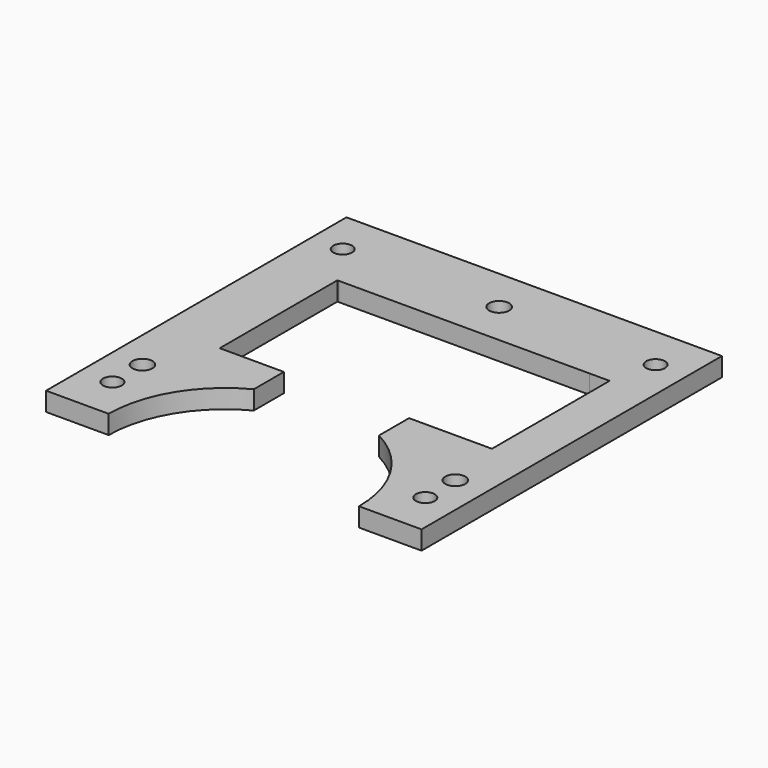
from build123d import *

# Parameters (mm, degrees)
F1_DEPTH  = 3
F2_R      = 1.5
F3_DEPTH  = 3.001
F4_R      = 1.6
F5_DEPTH  = 3.001
F6_W      = 40
F6_H      = 3
F7_DEPTH  = 0.5
F8_W      = 23.5
F8_H      = 3
F9_DEPTH  = 0.25
F10_W     = 23.5000022292
F10_H     = 3
F11_DEPTH = 0.25
F12_W     = 23.5000022292
F12_H     = 3
F13_DEPTH = 3


with BuildPart() as f1:
    # F0 (on Top) → F1 (new body)
    with BuildSketch(Plane.XY):
        Polygon((30, -30), (30, 30), (-30, 30), (-30, -30), (-20, -30), (-20, -15.5000011146), (-19.9802070856, -13.5000011146), (-10, -13.5000011146), (-10, -7.5000011146), (-20, -7.5000011146), (-20, 15.4999988854), (20, 15.5000011146), (20, -7.5000011146), (10, -7.5000011146), (10, -13.5000011146), (20, -13.5000011146), (20, -15.4999988854), (20, -30), align=None)
        with BuildLine():
            Line((-20, -15.5000011146), (-20, -30))
            ThreePointArc((-20, -30), (-17.3048696173, -20.3531097858), (-10, -13.5000011146))
            Line((-10, -13.5000011146), (-19.9802070856, -13.5000011146))
            Line((-19.9802070856, -13.5000011146), (-20, -15.5000011146))
        make_face()
        with BuildLine():
            ThreePointArc((10, -13.5000011146), (17.3048696173, -20.3531097858), (20, -30))
            Line((20, -30), (20, -15.4999988854))
            Line((20, -15.4999988854), (20, -13.5000011146))
            Line((20, -13.5000011146), (10, -13.5000011146))
        make_face()
    extrude(amount=F1_DEPTH)

    # F2 (on face) → F3 (cut, through all)
    with BuildSketch(Plane.XY.offset(3)):
        with Locations((-25, 23)):
            Circle(F2_R)
        with Locations((25, 23)):
            Circle(F2_R)
        with Locations((-25, -23)):
            Circle(F2_R)
        with Locations((25, -23)):
            Circle(F2_R)
    extrude(amount=-F3_DEPTH, mode=Mode.SUBTRACT)

    # F4 (on face) → F5 (cut, through all)
    with BuildSketch(Plane.XY.offset(3)):
        with Locations((25, -17)):
            Circle(F4_R)
        with Locations((-25, -17)):
            Circle(F4_R)
        with Locations((0, 23)):
            Circle(F4_R)
    extrude(amount=-F5_DEPTH, mode=Mode.SUBTRACT)

    # F6 (on face) → F7 (cut)
    with BuildSketch(Plane(origin=(-8.638e-07, 15.5, 0), x_dir=(1, 5.57e-08, 0), z_dir=(5.57e-08, -1, 0))):
        with Locations((8.638e-07, 1.5)):
            Rectangle(F6_W, F6_H)
    extrude(amount=-F7_DEPTH, mode=Mode.SUBTRACT)

    # F8 (on face) → F9 (cut)
    with BuildSketch(Plane.YZ.offset(-20)):
        with Locations((4.2499988854, 1.5)):
            Rectangle(F8_W, F8_H)
    extrude(amount=-F9_DEPTH, mode=Mode.SUBTRACT)

    # F10 (on face) → F11 (cut)
    with BuildSketch(Plane(origin=(20, 0, 0), x_dir=(0, -1, 0), z_dir=(-1, 0, 0))):
        with Locations((-4.25, 1.5)):
            Rectangle(F10_W, F10_H)
    extrude(amount=-F11_DEPTH, mode=Mode.SUBTRACT)

    # F12 (on face) → F13 (cut)
    with BuildSketch(Plane(origin=(20.25, 0, 0), x_dir=(0, -1, 0), z_dir=(-1, 0, 0))):
        with Locations((-4.25, 1.5)):
            Rectangle(F12_W, F12_H)
    extrude(amount=-F13_DEPTH, mode=Mode.SUBTRACT)


solid = f1.part
